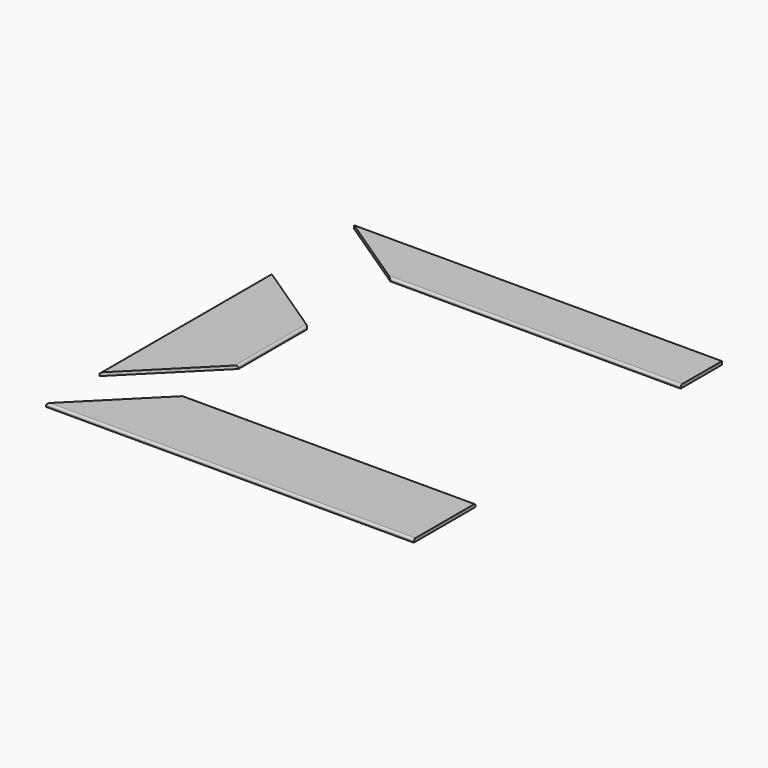
from build123d import *

# Parameters (mm, degrees)
F1_DEPTH = 38
F2_R     = 25
F3_R     = 25
F4_R     = 25


with BuildPart() as f1:
    # F0 (on Top) → F1 (new body)
    with BuildSketch(Plane.XY):
        Polygon((-4348.435363, 1624.164917), (-3448.435363, 1024.164917), (-68.435363, 1024.164917), (-68.435363, 1624.164917), align=None)
        Polygon((-4348.435363, 415.51868), (-4348.435363, -2084.48132), (-3448.435363, -1184.48132), (-3448.435363, -184.48132), align=None)
        Polygon((-3448.435363, -1958.960673), (-4348.435363, -2858.960673), (-68.435363, -2858.960673), (-68.435363, -1958.960673), align=None)
    extrude(amount=F1_DEPTH)

    # F2
    f2_edges = [f1.edges().sort_by_distance(p)[0] for p in [
        (-1758.435363, 1024.164917, 38),
    ]]
    fillet(f2_edges, radius=F2_R)

    # F3
    f3_edges = [f1.edges().sort_by_distance(p)[0] for p in [
        (-3448.435363, -684.48132, 38),
        (-4348.435363, -834.48132, 38),
    ]]
    fillet(f3_edges, radius=F3_R)

    # F4
    f4_edges = [f1.edges().sort_by_distance(p)[0] for p in [
        (-2208.435363, -2858.960673, 38),
        (-1758.435363, -1958.960673, 38),
    ]]
    fillet(f4_edges, radius=F4_R)


solid = f1.part
